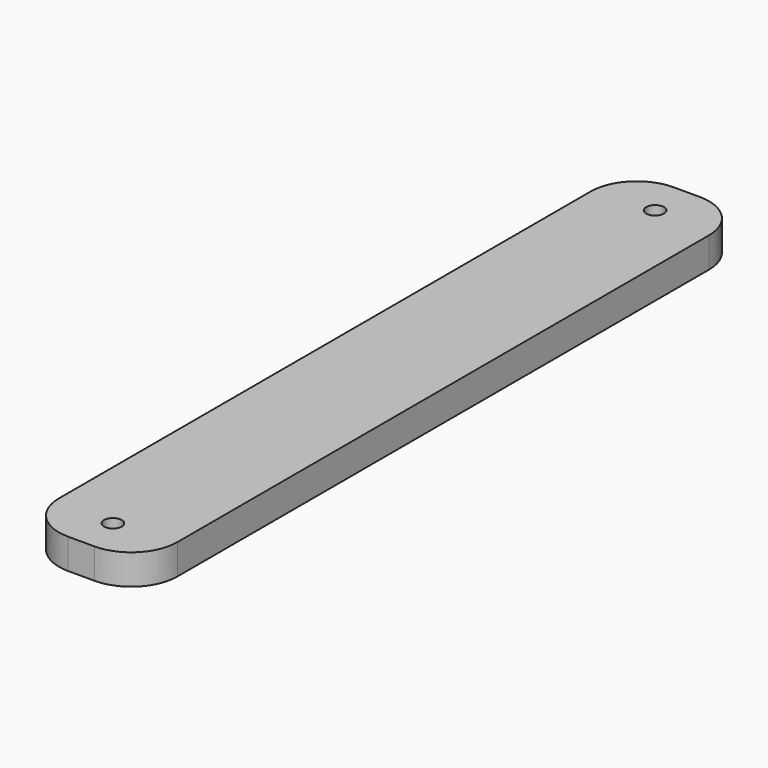
from build123d import *

# Parameters (mm, degrees)
SKETCH002_W     = 18
SKETCH002_H     = 115
SKETCH002_R     = 1.35
PAD001_DEPTH    = 4.6
POCKET001_DEPTH = 2.6
FILLET001_R     = 7


with BuildPart() as part:
    # Sketch002 → Pad001 (new body)
    with BuildSketch(Plane.XY):
        Rectangle(SKETCH002_W, SKETCH002_H)
        with Locations((0, 51.5)):
            Circle(SKETCH002_R, mode=Mode.SUBTRACT)
        with Locations((0, -51.5)):
            Circle(SKETCH002_R, mode=Mode.SUBTRACT)
    extrude(amount=PAD001_DEPTH)

    # Sketch003 (on Face7 of Pad001) → Pocket001 (cut)
    with BuildSketch(Plane(origin=(0, 0, 0), x_dir=(1, 0, 0), z_dir=(0, 0, -1))):
        Polygon((2.684679, 49.95), (2.684679, 53.05), (0, 54.6), (-2.684679, 53.05), (-2.684679, 49.95), (0, 48.4), align=None)
        Polygon((2.684679, -53.05), (2.684679, -49.95), (0, -48.4), (-2.684679, -49.95), (-2.684679, -53.05), (0, -54.6), align=None)
    extrude(amount=-POCKET001_DEPTH, mode=Mode.SUBTRACT)

    # Fillet001
    fillet001_edges = [part.edges().sort_by_distance(p)[0] for p in [
        (-9, 57.5, 2.3),
        (9, 57.5, 2.3),
        (9, -57.5, 2.3),
        (-9, -57.5, 2.3),
    ]]
    fillet(fillet001_edges, radius=FILLET001_R)


solid = part.part
